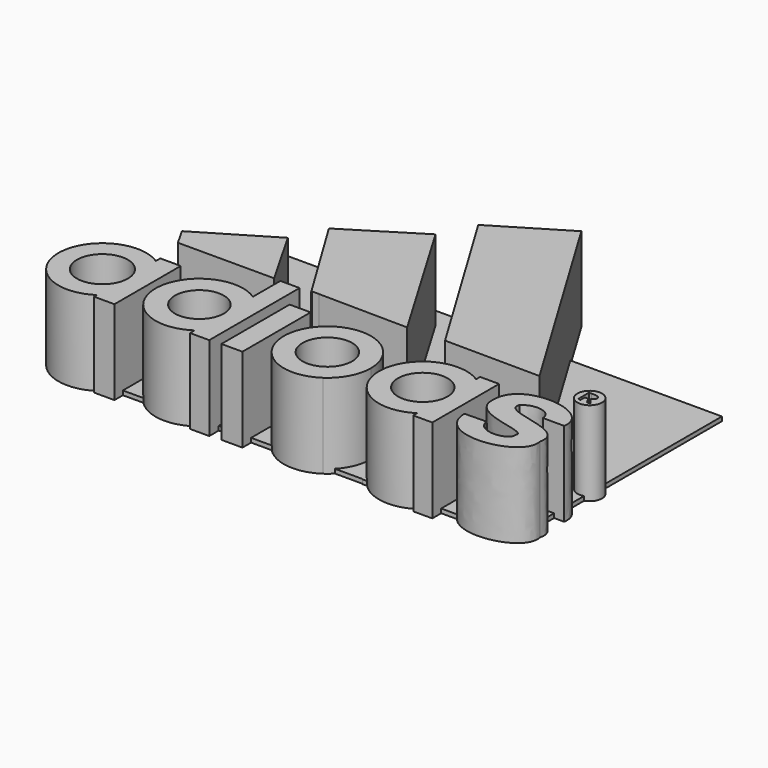
from build123d import *

# Parameters (mm, degrees)
F1_DEPTH = 25.4
F0_W     = 6.3219964504
F0_H     = 25.6492419285
F0_R     = 3.7028863799
F2_W     = 94.522215426
F2_H     = 77.5746088475
F3_DEPTH = 1.27


with BuildPart() as f1:
    # F0 (on Top) → F1 (new body)
    with BuildSketch(Plane.XY):
        with BuildLine():
            Line((-95.5502539873, -10.0774439282), (-95.5502539873, -1.6191602706))
            ThreePointArc((-95.5502539873, -1.6191602706), (-115.9761414051, -12.7218607813), (-95.5502539873, -23.824561292))
            Line((-95.5502539873, -23.824561292), (-95.5502539873, -15.3662776344))
            ThreePointArc((-95.5502539873, -15.3662776344), (-110.411697208, -12.7218607813), (-95.5502539873, -10.0774439282))
        make_face()
        with BuildLine():
            ThreePointArc((-95.5502539873, -23.824561292), (-91.1215179788, -19.0403064553), (-89.5152673006, -12.7218607813))
            ThreePointArc((-89.5152673006, -12.7218607813), (-91.1215179788, -6.4034151073), (-95.5502539873, -1.6191602706))
            Line((-95.5502539873, -1.6191602706), (-95.5502539873, -10.0774439282))
            ThreePointArc((-95.5502539873, -10.0774439282), (-95.1982638083, -11.3788836103), (-95.0797114977, -12.7218607813))
            ThreePointArc((-95.0797114977, -12.7218607813), (-95.1982638083, -14.0648379523), (-95.5502539873, -15.3662776344))
            Line((-95.5502539873, -15.3662776344), (-95.5502539873, -23.824561292))
        make_face()
        with BuildLine():
            ThreePointArc((-95.5502539873, -1.6191602706), (-91.1215179788, -6.4034151073), (-89.5152673006, -12.7218607813))
            ThreePointArc((-89.5152673006, -12.7218607813), (-91.1215179788, -19.0403064553), (-95.5502539873, -23.824561292))
            Line((-95.5502539873, -23.824561292), (-95.5502539873, -24.8696636409))
            Line((-95.5502539873, -24.8696636409), (-89.4088894129, -24.8696636409))
            Line((-89.4088894129, -24.8696636409), (-89.4088894129, 0.0570643861))
            Line((-89.4088894129, 0.0570643861), (-95.5502539873, 0.0570643861))
            Line((-95.5502539873, 0.0570643861), (-95.5502539873, -1.6191602706))
        make_face()
    extrude(amount=F1_DEPTH)



with BuildPart() as f1b:
    # F0 (on Top) → F1, piece 2 (new body)
    with BuildSketch(Plane.XY):
        with BuildLine():
            Line((-66.3787573576, -12.1052784887), (-66.3787573576, -1.5925313589))
            ThreePointArc((-66.3787573576, -1.5925313589), (-86.9047318424, -12.5539405271), (-66.3787573576, -23.5153496954))
            Line((-66.3787573576, -23.5153496954), (-66.3787573576, -13.0026025655))
            ThreePointArc((-66.3787573576, -13.0026025655), (-81.0647583857, -12.5539405271), (-66.3787573576, -12.1052784887))
        make_face()
        with BuildLine():
            Line((-60.5986490846, -25.2309199423), (-60.5986490846, -13.9451234323))
            ThreePointArc((-60.5986490846, -13.9451234323), (-62.4245324819, -19.3729613986), (-66.3787573576, -23.5153496954))
            Line((-66.3787573576, -23.5153496954), (-66.3787573576, -25.2309199423))
            Line((-66.3787573576, -25.2309199423), (-60.5986490846, -25.2309199423))
        make_face()
        with BuildLine():
            Line((-60.5986490846, -13.9451234323), (-60.5986490846, -11.162757622))
            ThreePointArc((-60.5986490846, -11.162757622), (-62.4245324819, -5.7349196557), (-66.3787573576, -1.5925313589))
            Line((-66.3787573576, -1.5925313589), (-66.3787573576, -12.1052784887))
            ThreePointArc((-66.3787573576, -12.1052784887), (-66.36847808, -12.3295048458), (-66.3650505885, -12.5539405271))
            ThreePointArc((-66.3650505885, -12.5539405271), (-66.36847808, -12.7783762085), (-66.3787573576, -13.0026025655))
            Line((-66.3787573576, -13.0026025655), (-66.3787573576, -23.5153496954))
            ThreePointArc((-66.3787573576, -23.5153496954), (-62.4245324819, -19.3729613986), (-60.5986490846, -13.9451234323))
        make_face()
        with BuildLine():
            ThreePointArc((-66.3787573576, -1.5925313589), (-62.4245324819, -5.7349196557), (-60.5986490846, -11.162757622))
            Line((-60.5986490846, -11.162757622), (-60.5986490846, 8.7272301316))
            Line((-60.5986490846, 8.7272301316), (-66.3787573576, 8.7272301316))
            Line((-66.3787573576, 8.7272301316), (-66.3787573576, -1.5925313589))
        make_face()
    extrude(amount=F1_DEPTH)


with BuildPart() as f1c:
    # F0 (on Top) → F1, piece 3 (new body)
    with BuildSketch(Plane.XY):
        with Locations((-54.0057122707, -12.135356752)):
            Rectangle(F0_W, F0_H)
    extrude(amount=F1_DEPTH)


with BuildPart() as f1d:
    # F0 (on Top) → F1, piece 4 (new body)
    with BuildSketch(Plane.XY):
        with BuildLine():
            Line((-27.733432129, -11.7130340179), (-27.733432129, -1.8427888148))
            ThreePointArc((-27.733432129, -1.8427888148), (-48.2433770312, -12.6600218937), (-27.733432129, -23.4772549726))
            Line((-27.733432129, -23.4772549726), (-27.733432129, -13.6070097695))
            ThreePointArc((-27.733432129, -13.6070097695), (-42.5985445753, -12.6600218937), (-27.733432129, -11.7130340179))
        make_face()
        with BuildLine():
            ThreePointArc((-22.0282714354, -12.6600218937), (-23.5419640977, -6.5452571798), (-27.733432129, -1.8427888148))
            Line((-27.733432129, -1.8427888148), (-27.733432129, -11.7130340179))
            ThreePointArc((-27.733432129, -11.7130340179), (-27.688201222, -12.1855681201), (-27.6731038913, -12.6600218937))
            ThreePointArc((-27.6731038913, -12.6600218937), (-27.688201222, -13.1344756673), (-27.733432129, -13.6070097695))
            Line((-27.733432129, -13.6070097695), (-27.733432129, -23.4772549726))
            ThreePointArc((-27.733432129, -23.4772549726), (-23.5419640977, -18.7747866075), (-22.0282714354, -12.6600218937))
        make_face()
    extrude(amount=F1_DEPTH)


with BuildPart() as f1e:
    # F0 (on Top) → F1, piece 5 (new body)
    with BuildSketch(Plane.XY):
        with BuildLine():
            Line((0.7545523695, -10.6497378828), (0.7545523695, -1.6155064504))
            ThreePointArc((0.7545523695, -1.6155064504), (-19.5956870343, -12.6600218937), (0.7545523695, -23.704537337))
            Line((0.7545523695, -23.704537337), (0.7545523695, -14.6703059045))
            ThreePointArc((0.7545523695, -14.6703059045), (-13.8777752712, -12.6600218937), (0.7545523695, -10.6497378828))
        make_face()
        with BuildLine():
            ThreePointArc((6.4745810814, -9.9869993238), (4.4523092009, -5.2288447055), (0.7545523695, -1.6155064504))
            Line((0.7545523695, -1.6155064504), (0.7545523695, -10.6497378828))
            ThreePointArc((0.7545523695, -10.6497378828), (0.9613689801, -11.6454381827), (1.0307382166, -12.6600218937))
            ThreePointArc((1.0307382166, -12.6600218937), (0.9613689801, -13.6746056047), (0.7545523695, -14.6703059045))
            Line((0.7545523695, -14.6703059045), (0.7545523695, -23.704537337))
            ThreePointArc((0.7545523695, -23.704537337), (4.4523092009, -20.0911990819), (6.4745810814, -15.3330444636))
            Line((6.4745810814, -15.3330444636), (6.4745810814, -9.9869993238))
        make_face()
        with BuildLine():
            Line((6.4745810814, -0.0983893915), (0.7545523695, -0.0983893915))
            Line((0.7545523695, -0.0983893915), (0.7545523695, -1.6155064504))
            ThreePointArc((0.7545523695, -1.6155064504), (4.4523092009, -5.2288447055), (6.4745810814, -9.9869993238))
            Line((6.4745810814, -9.9869993238), (6.4745810814, -0.0983893915))
        make_face()
        with BuildLine():
            ThreePointArc((6.4745810814, -15.3330444636), (4.4523092009, -20.0911990819), (0.7545523695, -23.704537337))
            Line((0.7545523695, -23.704537337), (0.7545523695, -25.2216532826))
            Line((0.7545523695, -25.2216532826), (6.4745810814, -25.2216532826))
            Line((6.4745810814, -25.2216532826), (6.4745810814, -15.3330444636))
        make_face()
    extrude(amount=F1_DEPTH)


with BuildPart() as f1f:
    # F0 (on Top) → F1, piece 6 (new body)
    with BuildSketch(Plane.XY):
        Polygon((11.364155449, 8.9689418674), (-26.9681066275, 72.6352259517), (-47.8808321059, 60.0176118314), (-17.219924571, 9.1995145204), align=None)
    extrude(amount=F1_DEPTH)


with BuildPart() as f1g:
    # F0 (on Top) → F1, piece 7 (new body)
    with BuildSketch(Plane.XY):
        Polygon((-78.7044442646, 26.9373764104), (-100.2490743995, 14.0445278957), (-97.3109230399, 8.8595543057), (-68.3742586143, 8.8595543057), align=None)
    extrude(amount=F1_DEPTH)


with BuildPart() as f1h:
    # F0 (on Top) → F1, piece 8 (new body)
    with BuildSketch(Plane.XY):
        Polygon((-52.7201481164, 49.9936789274), (-74.1513743997, 36.6855785251), (-57.2137907147, 8.8595543057), (-57.2137907147, 9.2052184045), (-55.1797933877, 9.2052184045), (-55.1797933877, 9.1808592172), (-28.3507648855, 8.8595543057), align=None)
    extrude(amount=F1_DEPTH)


with BuildPart() as f1i:
    # F0 (on Top) → F1, piece 9 (new body)
    with BuildSketch(Plane.XY):
        with BuildLine():
            Line((25.3261514008, -7.2083924897), (31.7301750183, -7.2083924897))
            add(Edge.make_bspline(
                [(31.7301750183, -7.2083924897), (33.3362407982, 2.4604997598), (10.2234305814, 4.818319343), (10.416016914, -7.2083924897)],
                knots=[0, 0, 0, 0, 21.3141581044, 21.3141581044, 21.3141581044, 21.3141581044], degree=3))
            add(Edge.make_bspline(
                [(10.416016914, -7.2083924897), (9.5648029819, -16.0749536008), (27.1332636476, -14.5523548126), (25.7277861238, -17.8318005055)],
                knots=[0, 0, 0, 0, 18.636176491, 18.636176491, 18.636176491, 18.636176491], degree=3))
            add(Edge.make_bspline(
                [(25.7277861238, -17.8318005055), (26.196276769, -21.3454924524), (16.8849937618, -22.2824774683), (16.1236934364, -16.8948154896)],
                knots=[0, 0, 0, 0, 9.6496910452, 9.6496910452, 9.6496910452, 9.6496910452], degree=3))
            Line((16.1236934364, -16.8948154896), (9.5648029819, -17.0215815306))
            add(Edge.make_bspline(
                [(9.5648029819, -17.0215815306), (9.8658902571, -30.0395879894), (34.2768318951, -26.461340487), (32.2877913713, -16.8948154896)],
                knots=[0, 0, 0, 0, 22.7233419852, 22.7233419852, 22.7233419852, 22.7233419852], degree=3))
            add(Edge.make_bspline(
                [(32.2877913713, -16.8948154896), (34.2768318951, -8.2887522876), (14.8384906352, -10.8618410304), (16.9179402292, -5.4327398539)],
                knots=[0, 0, 0, 0, 19.1731974906, 19.1731974906, 19.1731974906, 19.1731974906], degree=3))
            add(Edge.make_bspline(
                [(16.9179402292, -5.4327398539), (19.9919100851, -2.7138362639), (25.2357423306, -3.6971382797), (25.3261514008, -7.2083924897)],
                knots=[0, 0, 0, 0, 8.5936579749, 8.5936579749, 8.5936579749, 8.5936579749], degree=3))
        make_face()
    extrude(amount=F1_DEPTH)


with BuildPart() as f1j:
    # F0 (on Top) → F1, piece 10 (new body)
    with BuildSketch(Plane.XY):
        with Locations((27.5757219642, 7.6031410135)):
            Circle(F0_R)
        with BuildLine():
            Line((25.7352683693, 5.5233486928), (25.7352683693, 9.5931263641))
            Line((25.7352683693, 9.5931263641), (26.4947190881, 9.5931263641))
            add(Edge.make_bspline(
                [(26.4947190881, 9.5931263641), (29.825411737, 9.9356975406), (29.5525606208, 7.9634049892), (28.045723536, 7.3289470732)],
                knots=[0, 0, 0, 0, 2.7444712894, 2.7444712894, 2.7444712894, 2.7444712894], degree=3))
            Line((28.045723536, 7.3289470732), (29.5710033087, 5.4944893345))
            Line((29.5710033087, 5.4944893345), (28.3978786319, 5.4944893345))
            Line((28.3978786319, 5.4944893345), (27.5254994631, 7.1004638448))
            Line((27.5254994631, 7.1004638448), (26.4947190881, 7.1004638448))
            Line((26.4947190881, 7.1004638448), (26.4947190881, 5.5233486928))
            Line((26.4947190881, 5.5233486928), (25.7352683693, 5.5233486928))
        make_face(mode=Mode.SUBTRACT)
    extrude(amount=F1_DEPTH)


with BuildPart() as f1_1:
    add(f1.part)

    add(f1b.part)  # F3 merges F1b

    add(f1c.part)  # F3 merges F1c

    add(f1d.part)  # F3 merges F1d

    add(f1e.part)  # F3 merges F1e

    add(f1f.part)  # F3 merges F1f

    add(f1g.part)  # F3 merges F1g

    add(f1h.part)  # F3 merges F1h

    add(f1i.part)  # F3 merges F1i

    add(f1j.part)  # F3 merges F1j
    # F2 (on Top) → F3 (join)
    with BuildSketch(Plane.XY):
        with Locations((-64.4969977438, 17.0906269923)):
            Rectangle(F2_W, F2_H)
        Polygon((28.7148393691, 55.877931416), (-17.2358900309, 55.877931416), (-17.2358900309, -21.6966774315), (-17.2358900309, -21.8713954091), (28.7148393691, -21.8713954091), align=None)
    extrude(amount=F3_DEPTH)


solid = f1_1.part
